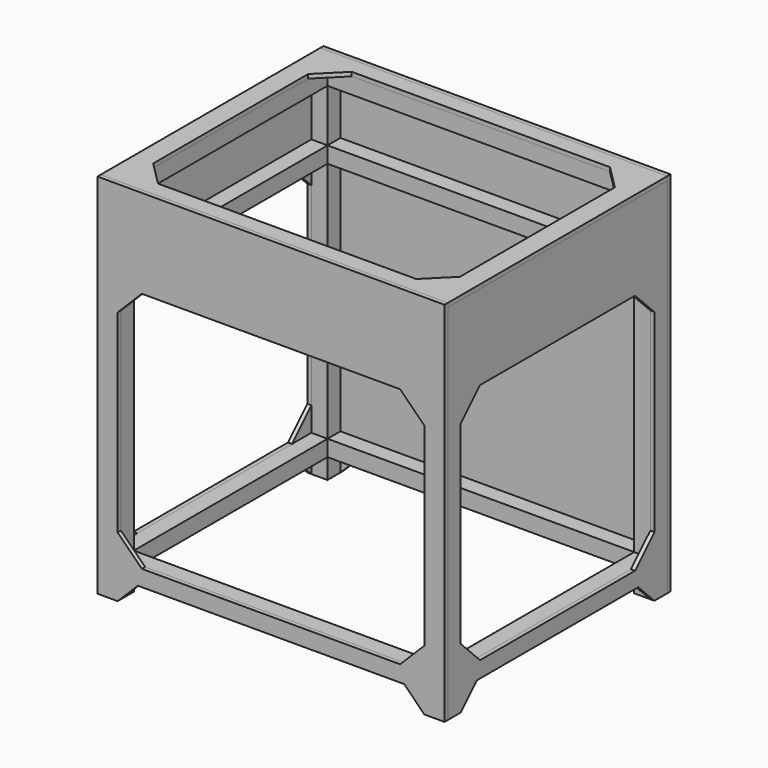
from build123d import *

# Parameters (mm, degrees)
F1_W          = 20
F1_H          = 300
F2_DEPTH      = 20
F1_W_2        = 380
F1_H_2        = 20
F3_DEPTH      = 105
F3_DEPTH_BACK = 345
F4_START      = 85
F4_DEPTH      = 20
F5_START      = -300
F5_DEPTH      = 20
F6_W          = 380
F6_H          = 65
F7_DEPTH      = 5
F8_W          = 380
F8_H          = 300
F8_H_2        = 65
F9_DEPTH      = 5
F10_W         = 420
F10_H         = 340
F10_W_2       = 5
F11_DEPTH     = 5
F12_W         = 300
F12_H         = 65
F13_DEPTH     = 5


with BuildPart() as f2:
    # F1 (on Top) → F2 (new body)
    with BuildSketch(Plane.XY):
        with Locations((-200, 0)):
            Rectangle(F1_W, F1_H)
    extrude(amount=F2_DEPTH)



with BuildPart() as f2b:
    # F1 (on Top) → F2, piece 2 (new body)
    with BuildSketch(Plane.XY):
        with Locations((0, 160)):
            Rectangle(F1_W_2, F1_H_2)
    extrude(amount=F2_DEPTH)


with BuildPart() as f2c:
    # F1 (on Top) → F2, piece 3 (new body)
    with BuildSketch(Plane.XY):
        with Locations((200, 0)):
            Rectangle(F1_W, F1_H)
    extrude(amount=F2_DEPTH)


with BuildPart() as f2d:
    # F1 (on Top) → F2, piece 4 (new body)
    with BuildSketch(Plane.XY):
        with Locations((0, -160)):
            Rectangle(F1_W_2, F1_H_2)
    extrude(amount=F2_DEPTH)


with BuildPart() as f2_1:
    add(f2.part)

    add(f2b.part)  # F3 merges F2b

    add(f2c.part)  # F3 merges F2c

    add(f2d.part)  # F3 merges F2d
    # F1 (on Top) → F3 (join, two sides)
    with BuildSketch(Plane.XY) as f3_sk:
        with Locations((-200, -160)):
            Rectangle(F1_W, F1_H_2)
        with Locations((200, -160)):
            Rectangle(F1_W, F1_H_2)
        with Locations((-200, 160)):
            Rectangle(F1_W, F1_H_2)
        with Locations((200, 160)):
            Rectangle(F1_W, F1_H_2)
    extrude(amount=F3_DEPTH)
    extrude(f3_sk.sketch, amount=-F3_DEPTH_BACK)

    # F1 (on Top) → F4 (join)
    with BuildSketch(Plane.XY.offset(F4_START)):
        with Locations((-200, 0)):
            Rectangle(F1_W, F1_H)
        with Locations((0, 160)):
            Rectangle(F1_W_2, F1_H_2)
        with Locations((200, 0)):
            Rectangle(F1_W, F1_H)
        with Locations((0, -160)):
            Rectangle(F1_W_2, F1_H_2)
    extrude(amount=F4_DEPTH)

    # F1 (on Top) → F5 (join)
    with BuildSketch(Plane.XY.offset(F5_START)):
        with Locations((-200, 0)):
            Rectangle(F1_W, F1_H)
        with Locations((0, 160)):
            Rectangle(F1_W_2, F1_H_2)
        with Locations((200, 0)):
            Rectangle(F1_W, F1_H)
        with Locations((0, -160)):
            Rectangle(F1_W_2, F1_H_2)
    extrude(amount=-F5_DEPTH)


with BuildPart() as f7:
    # F6 (on face) → F7 (new body)
    with BuildSketch(Plane.XZ.offset(170)):
        Polygon((-190, -345), (-190, -320), (-165, -320), (165, -320), (190, -320), (190, -345), (210, -345), (210, 105), (-210, 105), (-210, -345), align=None)
        Polygon((-190, -30), (-190, 0), (-160, 0), (160, 0), (190, 0), (190, -30), (190, -270), (190, -300), (160, -300), (-160, -300), (-190, -300), (-190, -270), align=None, mode=Mode.SUBTRACT)
        with Locations((0, 52.5)):
            Rectangle(F6_W, F6_H, mode=Mode.SUBTRACT)
        Polygon((-215, -345), (-210, -345), (-210, 105), (210, 105), (210, -345), (215, -345), (215, 110), (-215, 110), align=None)
        Polygon((190, 0), (160, 0), (190, -30), align=None)
        Polygon((-160, 0), (-190, 0), (-190, -30), align=None)
        Polygon((190, -270), (160, -300), (190, -300), align=None)
        Polygon((190, -320), (165, -320), (190, -345), align=None)
        Polygon((-160, -300), (-190, -270), (-190, -300), align=None)
        Polygon((-165, -320), (-190, -320), (-190, -345), align=None)
        with Locations((0, 52.5)):
            Rectangle(F6_W, F6_H)
    extrude(amount=F7_DEPTH)


with BuildPart() as f9:
    # F8 (on face) → F9 (new body)
    with BuildSketch(Plane(origin=(0, 170, 0), x_dir=(-1, 0, 0), z_dir=(0, 1, 0))):
        Polygon((-190, -345), (-190, -320), (-165, -320), (165, -320), (190, -320), (190, -345), (210, -345), (210, 105), (-210, 105), (-210, -345), align=None)
        with Locations((0, -150)):
            Rectangle(F8_W, F8_H, mode=Mode.SUBTRACT)
        with Locations((0, 52.5)):
            Rectangle(F8_W, F8_H_2, mode=Mode.SUBTRACT)
        with Locations((0, 52.5)):
            Rectangle(F8_W, F8_H_2)
        with Locations((0, -150)):
            Rectangle(F8_W, F8_H)
        Polygon((-215, -345), (-210, -345), (-210, 105), (210, 105), (210, -345), (215, -345), (215, 110), (-215, 110), align=None)
        Polygon((190, -320), (165, -320), (190, -345), align=None)
        Polygon((-165, -320), (-190, -320), (-190, -345), align=None)
    extrude(amount=F9_DEPTH)


with BuildPart() as f11:
    # F10 (on face) → F11 (new body)
    with BuildSketch(Plane.XY.offset(105)):
        Rectangle(F10_W, F10_H)
        Polygon((-190, 120), (-190, 150), (-160, 150), (160, 150), (190, 150), (190, 120), (190, -120), (190, -150), (160, -150), (-160, -150), (-190, -150), (-190, -120), align=None, mode=Mode.SUBTRACT)
        with Locations((-212.5, 0)):
            Rectangle(F10_W_2, F10_H)
        with Locations((212.5, 0)):
            Rectangle(F10_W_2, F10_H)
        Polygon((-160, -150), (-190, -120), (-190, -150), align=None)
        Polygon((-160, 150), (-190, 150), (-190, 120), align=None)
        Polygon((190, 150), (160, 150), (190, 120), align=None)
        Polygon((190, -120), (160, -150), (190, -150), align=None)
    extrude(amount=F11_DEPTH)


with BuildPart() as f13:
    # F12 (on face) → F13 (new body)
    with BuildSketch(Plane.YZ.offset(210)):
        Polygon((-150, -345), (-150, -320), (-125, -320), (125, -320), (150, -320), (150, -345), (170, -345), (170, 105), (-170, 105), (-170, -345), align=None)
        Polygon((-150, -300), (-150, -270), (-150, -30), (-150, 0), (-120, 0), (120, 0), (150, 0), (150, -30), (150, -270), (150, -300), (120, -300), (-120, -300), align=None, mode=Mode.SUBTRACT)
        with Locations((0, 52.5)):
            Rectangle(F12_W, F12_H, mode=Mode.SUBTRACT)
        with Locations((0, 52.5)):
            Rectangle(F12_W, F12_H)
        Polygon((-150, 0), (-150, -30), (-120, 0), align=None)
        Polygon((150, 0), (120, 0), (150, -30), align=None)
        Polygon((150, -270), (120, -300), (150, -300), align=None)
        Polygon((-120, -300), (-150, -270), (-150, -300), align=None)
        Polygon((-125, -320), (-150, -320), (-150, -345), align=None)
        Polygon((150, -320), (125, -320), (150, -345), align=None)
    extrude(amount=F13_DEPTH)


with BuildPart() as f14_1:
    # F14: copy of F13
    add(f13.part.moved(Location((-425, 0, 0))))


solid = Compound([f2_1.part, f7.part, f9.part, f11.part, f13.part, f14_1.part])
